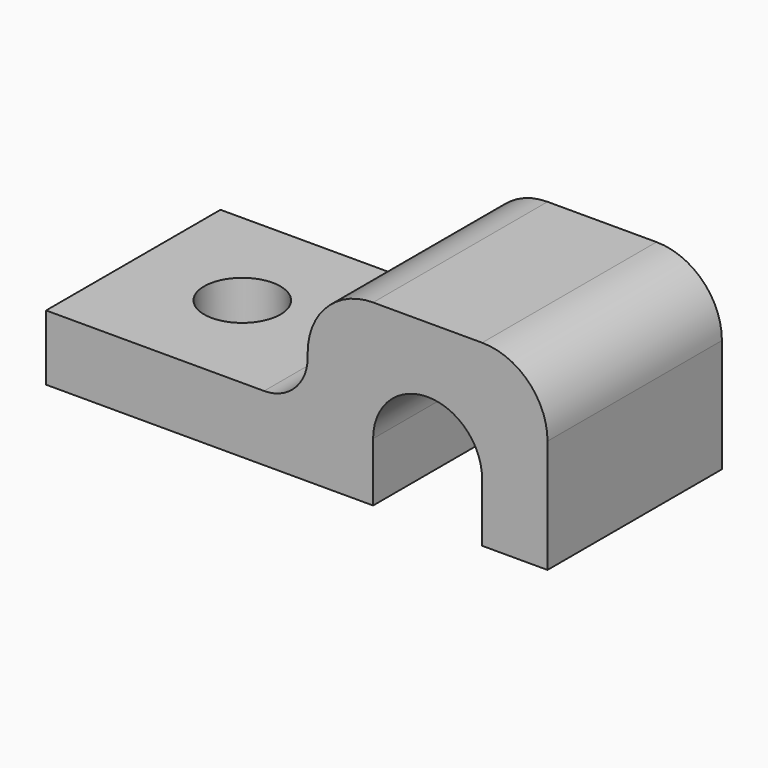
from build123d import *

# Parameters (mm, degrees)
F1_DEPTH = 10
F3_R     = 1.75
F4_DEPTH = 3.001


with BuildPart() as f1:
    # F0 (on Front) → F1 (new body)
    with BuildSketch(Plane.XZ):
        with BuildLine():
            Line((-12, 0), (0, 0))
            Line((0, 0), (3, 0))
            Line((3, 0), (3, 2.7))
            ThreePointArc((3, 2.7), (5.5, 5.2), (8, 2.7))
            Line((8, 2.7), (8, 0))
            Line((8, 0), (11, 0))
            Line((11, 0), (11, 5.2))
            ThreePointArc((11, 5.2), (10.1213203436, 7.3213203436), (8, 8.2))
            Line((8, 8.2), (3, 8.2))
            ThreePointArc((3, 8.2), (0.8786796564, 7.3213203436), (0, 5.2))
            Line((0, 5.2), (0, 5))
            ThreePointArc((0, 5), (-0.5857864376, 3.5857864376), (-2, 3))
            Line((-2, 3), (-12, 3))
            Line((-12, 3), (-12, 0))
        make_face()
    extrude(amount=F1_DEPTH)

    # F3 (on offset) → F4 (cut, through all)
    with BuildSketch(Plane.XY.offset(3)):
        with Locations((-7, -5)):
            Circle(F3_R)
    extrude(amount=-F4_DEPTH, mode=Mode.SUBTRACT)


solid = f1.part
